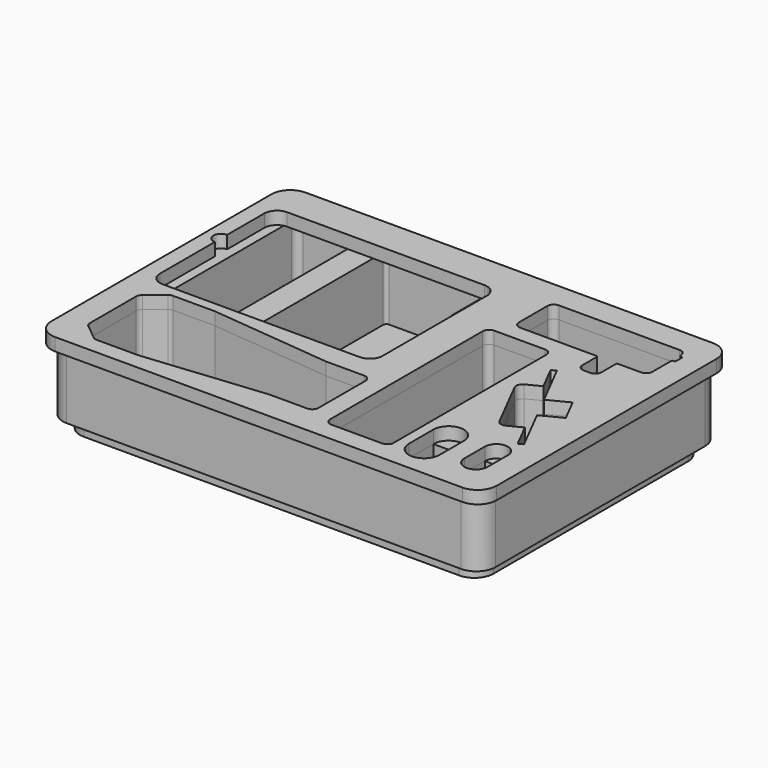
from build123d import *

# Parameters (mm, degrees)
F0_W     = 30.48
F0_H     = 30.48
F1_DEPTH = 63.5
F3_DEPTH = 12.7
F5_DEPTH = 12.7


with BuildPart() as f1:
    # F0 (on Top) → F1 (new body)
    with BuildSketch(Plane.XY):
        with BuildLine():
            Line((196.85, 149.86), (-196.85, 149.86))
            ThreePointArc((-196.85, 149.86), (-210.320384, 144.280384), (-215.9, 130.81))
            Line((-215.9, 130.81), (-215.9, -130.81))
            ThreePointArc((-215.9, -130.81), (-210.320384, -144.280384), (-196.85, -149.86))
            Line((-196.85, -149.86), (196.85, -149.86))
            ThreePointArc((196.85, -149.86), (210.320384, -144.280384), (215.9, -130.81))
            Line((215.9, -130.81), (215.9, 130.81))
            ThreePointArc((215.9, 130.81), (210.320384, 144.280384), (196.85, 149.86))
        make_face()
        with BuildLine():
            ThreePointArc((-194.486228, -125.731268), (-196.228658, -123.527866), (-196.85, -120.788345))
            Line((-196.85, -120.788345), (-196.85, -63.361655))
            ThreePointArc((-196.85, -63.361655), (-196.228658, -60.622134), (-194.486228, -58.418732))
            Line((-194.486228, -58.418732), (-178.909776, -45.857077))
            ThreePointArc((-178.909776, -45.857077), (-177.037187, -44.812093), (-174.923548, -44.45))
            Line((-174.923548, -44.45), (-133.35, -44.45))
            Line((-133.35, -44.45), (-12.7, -56.515))
            Line((-12.7, -56.515), (25.4, -56.515))
            ThreePointArc((25.4, -56.515), (29.890128, -58.374872), (31.75, -62.865))
            Line((31.75, -62.865), (31.75, -121.285))
            ThreePointArc((31.75, -121.285), (29.890128, -125.775128), (25.4, -127.635))
            Line((25.4, -127.635), (-12.7, -127.635))
            Line((-12.7, -127.635), (-133.35, -139.7))
            Line((-133.35, -139.7), (-174.923548, -139.7))
            ThreePointArc((-174.923548, -139.7), (-177.037187, -139.337907), (-178.909776, -138.292923))
            Line((-178.909776, -138.292923), (-194.486228, -125.731268))
        make_face(mode=Mode.SUBTRACT)
        with Locations((139.7, -109.22)):
            Rectangle(F0_W, F0_H, mode=Mode.SUBTRACT)
        with BuildLine():
            Line((173.736, -106.68), (173.736, -91.44))
            Line((173.736, -91.44), (196.85, -91.44))
            Line((196.85, -91.44), (196.85, -106.68))
            ThreePointArc((196.85, -106.68), (185.293, -118.237), (173.736, -106.68))
        make_face(mode=Mode.SUBTRACT)
        with BuildLine():
            ThreePointArc((114.3, -130.81), (112.440128, -135.300128), (107.95, -137.16))
            Line((107.95, -137.16), (57.15, -137.16))
            ThreePointArc((57.15, -137.16), (52.659872, -135.300128), (50.8, -130.81))
            Line((50.8, -130.81), (50.8, 59.69))
            ThreePointArc((50.8, 59.69), (52.659872, 64.180128), (57.15, 66.04))
            Line((57.15, 66.04), (107.95, 66.04))
            ThreePointArc((107.95, 66.04), (112.440128, 64.180128), (114.3, 59.69))
            Line((114.3, 59.69), (114.3, -130.81))
        make_face(mode=Mode.SUBTRACT)
        with BuildLine():
            Line((155.867918, -50.834227), (142.606856, -24.807927))
            Line((142.606856, -24.807927), (129.345794, 1.218374))
            ThreePointArc((129.345794, 1.218374), (128.964476, 6.063472), (132.120845, 9.759105))
            Line((132.120845, 9.759105), (145.699785, 16.67792))
            Line((145.699785, 16.67792), (133.01529, 41.572643))
            Line((133.01529, 41.572643), (137.541603, 43.878914))
            Line((137.541603, 43.878914), (160.316037, -0.818428))
            Line((160.316037, -0.818428), (180.684446, 9.559795))
            Line((180.684446, 9.559795), (186.738409, -2.321777))
            Line((186.738409, -2.321777), (192.792372, -14.203349))
            Line((192.792372, -14.203349), (172.423963, -24.581572))
            Line((172.423963, -24.581572), (195.198397, -69.278914))
            Line((195.198397, -69.278914), (190.672084, -71.585186))
            Line((190.672084, -71.585186), (177.987589, -46.690464))
            Line((177.987589, -46.690464), (164.40865, -53.609279))
            ThreePointArc((164.40865, -53.609279), (159.563552, -53.990596), (155.867918, -50.834227))
        make_face(mode=Mode.SUBTRACT)
        with BuildLine():
            ThreePointArc((-190.5, -21.59), (-194.990128, -19.730128), (-196.85, -15.24))
            Line((-196.85, -15.24), (-196.85, 130.81))
            ThreePointArc((-196.85, 130.81), (-194.990128, 135.300128), (-190.5, 137.16))
            Line((-190.5, 137.16), (-136.525, 137.16))
            ThreePointArc((-136.525, 137.16), (-134.279936, 136.230064), (-133.35, 133.985))
            Line((-133.35, 133.985), (-133.35, -18.415))
            ThreePointArc((-133.35, -18.415), (-134.279936, -20.660064), (-136.525, -21.59))
            Line((-136.525, -21.59), (-190.5, -21.59))
        make_face(mode=Mode.SUBTRACT)
        with BuildLine():
            Line((31.75, 26.035), (31.75, -21.59))
            ThreePointArc((31.75, -21.59), (29.890128, -26.080128), (25.4, -27.94))
            Line((25.4, -27.94), (-15.875, -27.94))
            ThreePointArc((-15.875, -27.94), (-18.120064, -27.010064), (-19.05, -24.765))
            ThreePointArc((-19.05, -24.765), (-19.979936, -22.519936), (-22.225, -21.59))
            Line((-22.225, -21.59), (-104.775, -21.59))
            ThreePointArc((-104.775, -21.59), (-107.020064, -20.660064), (-107.95, -18.415))
            Line((-107.95, -18.415), (-107.95, 133.985))
            ThreePointArc((-107.95, 133.985), (-107.020064, 136.230064), (-104.775, 137.16))
            Line((-104.775, 137.16), (-6.35, 137.16))
            ThreePointArc((-6.35, 137.16), (-1.859872, 135.300128), (0, 130.81))
            Line((0, 130.81), (0, 86.36))
            ThreePointArc((0, 86.36), (1.859872, 81.869872), (6.35, 80.01))
            Line((6.35, 80.01), (34.925, 80.01))
            ThreePointArc((34.925, 80.01), (37.170064, 79.080064), (38.1, 76.835))
            Line((38.1, 76.835), (38.1, 32.385))
            ThreePointArc((38.1, 32.385), (37.170064, 30.139936), (34.925, 29.21))
            ThreePointArc((34.925, 29.21), (32.679936, 28.280064), (31.75, 26.035))
        make_face(mode=Mode.SUBTRACT)
        with BuildLine():
            ThreePointArc((69.85, 82.55), (65.359872, 84.409872), (63.5, 88.9))
            Line((63.5, 88.9), (63.5, 124.46))
            ThreePointArc((63.5, 124.46), (65.359872, 128.950128), (69.85, 130.81))
            Line((69.85, 130.81), (190.5, 130.81))
            ThreePointArc((190.5, 130.81), (194.990128, 128.950128), (196.85, 124.46))
            Line((196.85, 124.46), (196.85, 124.1298))
            ThreePointArc((196.85, 124.1298), (197.226412, 123.239995), (198.119936, 122.8725))
            Line((198.119936, 122.8725), (198.755, 122.8725))
            ThreePointArc((198.755, 122.8725), (199.653026, 122.500526), (200.025, 121.6025))
            Line((200.025, 121.6025), (200.025, 114.6175))
            ThreePointArc((200.025, 114.6175), (199.653026, 113.719474), (198.755, 113.3475))
            Line((198.755, 113.3475), (198.12, 113.3475))
            ThreePointArc((198.12, 113.3475), (197.221974, 112.975526), (196.85, 112.0775))
            Line((196.85, 112.0775), (196.85, 88.9))
            ThreePointArc((196.85, 88.9), (194.990128, 84.409872), (190.5, 82.55))
            Line((190.5, 82.55), (167.64, 82.55))
            ThreePointArc((167.64, 82.55), (166.741974, 82.178026), (166.37, 81.28))
            Line((166.37, 81.28), (166.37, 63.5))
            ThreePointArc((166.37, 63.5), (164.510128, 59.009872), (160.02, 57.15))
            Line((160.02, 57.15), (153.67, 57.15))
            ThreePointArc((153.67, 57.15), (149.179872, 59.009872), (147.32, 63.5))
            Line((147.32, 63.5), (147.32, 81.28))
            ThreePointArc((147.32, 81.28), (146.948026, 82.178026), (146.05, 82.55))
            Line((146.05, 82.55), (69.85, 82.55))
        make_face(mode=Mode.SUBTRACT)
    extrude(amount=F1_DEPTH)


with BuildPart() as f3:
    # F2 (on Top) → F3 (new body)
    with BuildSketch(Plane.XY):
        with BuildLine():
            Line((187.325, 140.335), (-187.325, 140.335))
            ThreePointArc((-187.325, 140.335), (-200.795384, 134.755384), (-206.375, 121.285))
            Line((-206.375, 121.285), (-206.375, -121.285))
            ThreePointArc((-206.375, -121.285), (-200.795384, -134.755384), (-187.325, -140.335))
            Line((-187.325, -140.335), (187.325, -140.335))
            ThreePointArc((187.325, -140.335), (200.795384, -134.755384), (206.375, -121.285))
            Line((206.375, -121.285), (206.375, 121.285))
            ThreePointArc((206.375, 121.285), (200.795384, 134.755384), (187.325, 140.335))
        make_face()
        with BuildLine():
            Line((-182.968114, -65.445176), (-173.554483, -57.853539))
            ThreePointArc((-173.554483, -57.853539), (-172.618189, -57.331047), (-171.561369, -57.15))
            Line((-171.561369, -57.15), (-134.141775, -57.15))
            ThreePointArc((-134.141775, -57.15), (-133.983617, -57.153942), (-133.825851, -57.165757))
            Line((-133.825851, -57.165757), (-13.49099, -69.199243))
            ThreePointArc((-13.49099, -69.199243), (-13.333224, -69.211058), (-13.175065, -69.215))
            Line((-13.175065, -69.215), (15.875, -69.215))
            ThreePointArc((15.875, -69.215), (18.120064, -70.144936), (19.05, -72.39))
            Line((19.05, -72.39), (19.05, -79.375))
            ThreePointArc((19.05, -79.375), (19.979936, -81.620064), (22.225, -82.55))
            Line((22.225, -82.55), (76.2, -82.55))
            ThreePointArc((76.2, -82.55), (85.725, -92.075), (76.2, -101.6))
            Line((76.2, -101.6), (22.225, -101.6))
            ThreePointArc((22.225, -101.6), (19.979936, -102.529936), (19.05, -104.775))
            Line((19.05, -104.775), (19.05, -111.76))
            ThreePointArc((19.05, -111.76), (18.120064, -114.005064), (15.875, -114.935))
            Line((15.875, -114.935), (-13.175065, -114.935))
            ThreePointArc((-13.175065, -114.935), (-13.333224, -114.938942), (-13.49099, -114.950757))
            Line((-13.49099, -114.950757), (-133.825851, -126.984243))
            ThreePointArc((-133.825851, -126.984243), (-133.983617, -126.996058), (-134.141775, -127))
            Line((-134.141775, -127), (-171.561369, -127))
            ThreePointArc((-171.561369, -127), (-172.618189, -126.818953), (-173.554483, -126.296461))
            Line((-173.554483, -126.296461), (-182.968114, -118.704824))
            ThreePointArc((-182.968114, -118.704824), (-183.839329, -117.603123), (-184.15, -116.233362))
            Line((-184.15, -116.233362), (-184.15, -67.916638))
            ThreePointArc((-184.15, -67.916638), (-183.839329, -66.546877), (-182.968114, -65.445176))
        make_face(mode=Mode.SUBTRACT)
        with BuildLine():
            Line((-158.75, 41.91), (-158.75, 54.61))
            Line((-158.75, 54.61), (-158.75, 67.31))
            ThreePointArc((-158.75, 67.31), (-157.820064, 69.555064), (-155.575, 70.485))
            Line((-155.575, 70.485), (-85.725, 70.485))
            ThreePointArc((-85.725, 70.485), (-83.479936, 69.555064), (-82.55, 67.31))
            Line((-82.55, 67.31), (-82.55, 54.61))
            Line((-82.55, 54.61), (-82.55, 41.91))
            ThreePointArc((-82.55, 41.91), (-83.479936, 39.664936), (-85.725, 38.735))
            Line((-85.725, 38.735), (-155.575, 38.735))
            ThreePointArc((-155.575, 38.735), (-157.820064, 39.664936), (-158.75, 41.91))
        make_face(mode=Mode.SUBTRACT)
        with BuildLine():
            ThreePointArc((-8.125321, 54.61), (-6.265449, 59.100128), (-1.775321, 60.96))
            Line((-1.775321, 60.96), (87.124679, 60.96))
            ThreePointArc((87.124679, 60.96), (91.614807, 59.100128), (93.474679, 54.61))
            Line((93.474679, 54.61), (93.474679, 35.56))
            ThreePointArc((93.474679, 35.56), (91.614807, 31.069872), (87.124679, 29.21))
            Line((87.124679, 29.21), (-1.775321, 29.21))
            ThreePointArc((-1.775321, 29.21), (-6.265449, 31.069872), (-8.125321, 35.56))
            Line((-8.125321, 35.56), (-8.125321, 54.61))
        make_face(mode=Mode.SUBTRACT)
    extrude(amount=-F3_DEPTH)


with BuildPart() as f5:
    # F4 (on face) → F5 (new body)
    with BuildSketch(Plane.XY.offset(63.5)):
        with BuildLine():
            Line((203.2, 156.21), (-203.2, 156.21))
            ThreePointArc((-203.2, 156.21), (-216.670384, 150.630384), (-222.25, 137.16))
            Line((-222.25, 137.16), (-222.25, -137.16))
            ThreePointArc((-222.25, -137.16), (-216.670384, -150.630384), (-203.2, -156.21))
            Line((-203.2, -156.21), (203.2, -156.21))
            ThreePointArc((203.2, -156.21), (216.670384, -150.630384), (222.25, -137.16))
            Line((222.25, -137.16), (222.25, 137.16))
            ThreePointArc((222.25, 137.16), (216.670384, 150.630384), (203.2, 156.21))
        make_face()
        with BuildLine():
            ThreePointArc((-194.486228, -125.731268), (-196.228658, -123.527866), (-196.85, -120.788345))
            Line((-196.85, -120.788345), (-196.85, -63.361655))
            ThreePointArc((-196.85, -63.361655), (-196.228658, -60.622134), (-194.486228, -58.418732))
            Line((-194.486228, -58.418732), (-178.909776, -45.857077))
            ThreePointArc((-178.909776, -45.857077), (-177.037187, -44.812093), (-174.923548, -44.45))
            Line((-174.923548, -44.45), (-133.35, -44.45))
            Line((-133.35, -44.45), (-12.7, -56.515))
            Line((-12.7, -56.515), (25.4, -56.515))
            ThreePointArc((25.4, -56.515), (29.890128, -58.374872), (31.75, -62.865))
            Line((31.75, -62.865), (31.75, -121.285))
            ThreePointArc((31.75, -121.285), (29.890128, -125.775128), (25.4, -127.635))
            Line((25.4, -127.635), (-12.7, -127.635))
            Line((-12.7, -127.635), (-133.35, -139.7))
            Line((-133.35, -139.7), (-174.923548, -139.7))
            ThreePointArc((-174.923548, -139.7), (-177.037187, -139.337907), (-178.909776, -138.292923))
            Line((-178.909776, -138.292923), (-194.486228, -125.731268))
        make_face(mode=Mode.SUBTRACT)
        with BuildLine():
            Line((124.46, -124.46), (124.46, -93.98))
            ThreePointArc((124.46, -93.98), (139.7, -78.74), (154.94, -93.98))
            Line((154.94, -93.98), (154.94, -124.46))
            ThreePointArc((154.94, -124.46), (139.7, -139.7), (124.46, -124.46))
        make_face(mode=Mode.SUBTRACT)
        with BuildLine():
            Line((173.736, -106.68), (173.736, -91.44))
            ThreePointArc((173.736, -91.44), (185.293, -79.883), (196.85, -91.44))
            Line((196.85, -91.44), (196.85, -106.68))
            Line((196.85, -106.68), (196.85, -116.84))
            ThreePointArc((196.85, -116.84), (185.293, -128.397), (173.736, -116.84))
            Line((173.736, -116.84), (173.736, -106.68))
        make_face(mode=Mode.SUBTRACT)
        with BuildLine():
            ThreePointArc((114.3, -130.81), (112.440128, -135.300128), (107.95, -137.16))
            Line((107.95, -137.16), (57.15, -137.16))
            ThreePointArc((57.15, -137.16), (52.659872, -135.300128), (50.8, -130.81))
            Line((50.8, -130.81), (50.8, 59.69))
            ThreePointArc((50.8, 59.69), (52.659872, 64.180128), (57.15, 66.04))
            Line((57.15, 66.04), (107.95, 66.04))
            ThreePointArc((107.95, 66.04), (112.440128, 64.180128), (114.3, 59.69))
            Line((114.3, 59.69), (114.3, -130.81))
        make_face(mode=Mode.SUBTRACT)
        with BuildLine():
            Line((155.867918, -50.834227), (142.606856, -24.807927))
            Line((142.606856, -24.807927), (129.345794, 1.218374))
            ThreePointArc((129.345794, 1.218374), (128.964476, 6.063472), (132.120845, 9.759105))
            Line((132.120845, 9.759105), (145.699785, 16.67792))
            Line((145.699785, 16.67792), (133.01529, 41.572643))
            Line((133.01529, 41.572643), (137.541603, 43.878914))
            Line((137.541603, 43.878914), (160.316037, -0.818428))
            Line((160.316037, -0.818428), (180.684446, 9.559795))
            Line((180.684446, 9.559795), (186.738409, -2.321777))
            Line((186.738409, -2.321777), (192.792372, -14.203349))
            Line((192.792372, -14.203349), (172.423963, -24.581572))
            Line((172.423963, -24.581572), (195.198397, -69.278914))
            Line((195.198397, -69.278914), (190.672084, -71.585186))
            Line((190.672084, -71.585186), (177.987589, -46.690464))
            Line((177.987589, -46.690464), (164.40865, -53.609279))
            ThreePointArc((164.40865, -53.609279), (159.563552, -53.990596), (155.867918, -50.834227))
        make_face(mode=Mode.SUBTRACT)
        with BuildLine():
            Line((3.175, -34.29), (-193.675, -34.29))
            ThreePointArc((-193.675, -34.29), (-202.655256, -30.570256), (-206.375, -21.59))
            Line((-206.375, -21.59), (-206.375, 46.99))
            ThreePointArc((-206.375, 46.99), (-213.995, 54.61), (-206.375, 62.23))
            Line((-206.375, 62.23), (-206.375, 103.951998))
            Line((-206.375, 103.951998), (-206.375, 108.585))
            ThreePointArc((-206.375, 108.585), (-202.655256, 117.565256), (-193.675, 121.285))
            Line((-193.675, 121.285), (3.175, 121.285))
            ThreePointArc((3.175, 121.285), (12.155256, 117.565256), (15.875, 108.585))
            Line((15.875, 108.585), (15.875, -21.59))
            ThreePointArc((15.875, -21.59), (12.155256, -30.570256), (3.175, -34.29))
        make_face(mode=Mode.SUBTRACT)
        with BuildLine():
            ThreePointArc((69.85, 82.55), (65.359872, 84.409872), (63.5, 88.9))
            Line((63.5, 88.9), (63.5, 124.46))
            ThreePointArc((63.5, 124.46), (65.359872, 128.950128), (69.85, 130.81))
            Line((69.85, 130.81), (190.5, 130.81))
            ThreePointArc((190.5, 130.81), (194.990128, 128.950128), (196.85, 124.46))
            Line((196.85, 124.46), (196.85, 124.1298))
            ThreePointArc((196.85, 124.1298), (197.226412, 123.239995), (198.119936, 122.8725))
            Line((198.119936, 122.8725), (198.755, 122.8725))
            ThreePointArc((198.755, 122.8725), (199.653026, 122.500526), (200.025, 121.6025))
            Line((200.025, 121.6025), (200.025, 114.6175))
            ThreePointArc((200.025, 114.6175), (199.653026, 113.719474), (198.755, 113.3475))
            Line((198.755, 113.3475), (198.12, 113.3475))
            ThreePointArc((198.12, 113.3475), (197.221974, 112.975526), (196.85, 112.0775))
            Line((196.85, 112.0775), (196.85, 88.9))
            ThreePointArc((196.85, 88.9), (194.990128, 84.409872), (190.5, 82.55))
            Line((190.5, 82.55), (167.64, 82.55))
            ThreePointArc((167.64, 82.55), (166.741974, 82.178026), (166.37, 81.28))
            Line((166.37, 81.28), (166.37, 63.5))
            ThreePointArc((166.37, 63.5), (164.510128, 59.009872), (160.02, 57.15))
            Line((160.02, 57.15), (153.67, 57.15))
            ThreePointArc((153.67, 57.15), (149.179872, 59.009872), (147.32, 63.5))
            Line((147.32, 63.5), (147.32, 81.28))
            ThreePointArc((147.32, 81.28), (146.948026, 82.178026), (146.05, 82.55))
            Line((146.05, 82.55), (69.85, 82.55))
        make_face(mode=Mode.SUBTRACT)
    extrude(amount=F5_DEPTH)


solid = Compound([f1.part, f3.part, f5.part])
